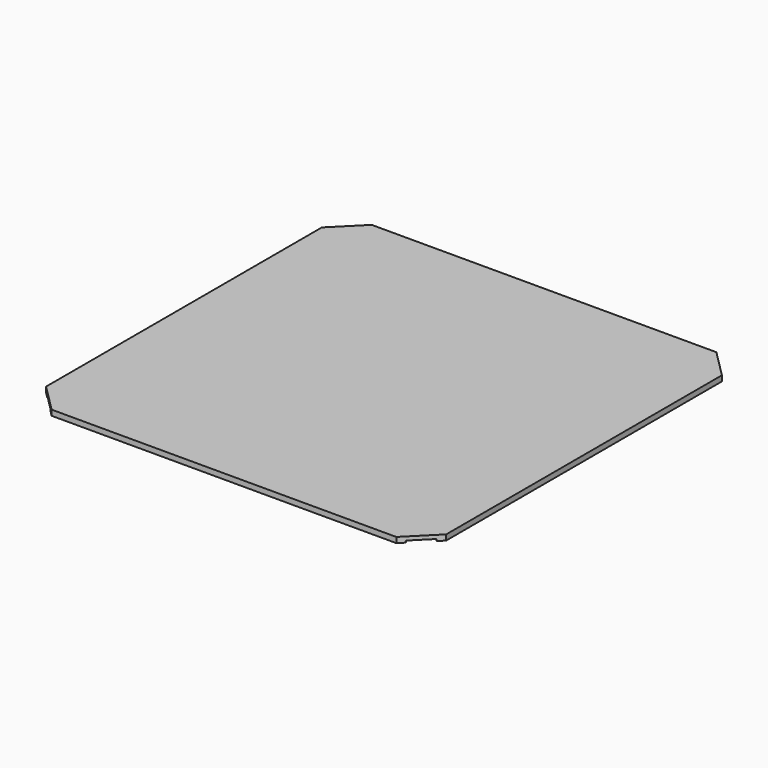
from build123d import *

# Parameters (mm, degrees)
F1_DEPTH = 3
F2_W     = 214
F2_H     = 214
F3_DEPTH = 1


with BuildPart() as f1:
    # F0 (on Top) → F1 (new body)
    with BuildSketch(Plane.XY):
        Polygon((-110, -94.757359), (-94.757359, -110), (94.757359, -110), (110, -94.757359), (110, 94.757359), (94.757359, 110), (-94.757359, 110), (-110, 94.757359), align=None)
    extrude(amount=F1_DEPTH)

    # F2 (on Top) → F3 (cut)
    with BuildSketch(Plane.XY):
        Rectangle(F2_W, F2_H)
    extrude(amount=F3_DEPTH, mode=Mode.SUBTRACT)


solid = f1.part
